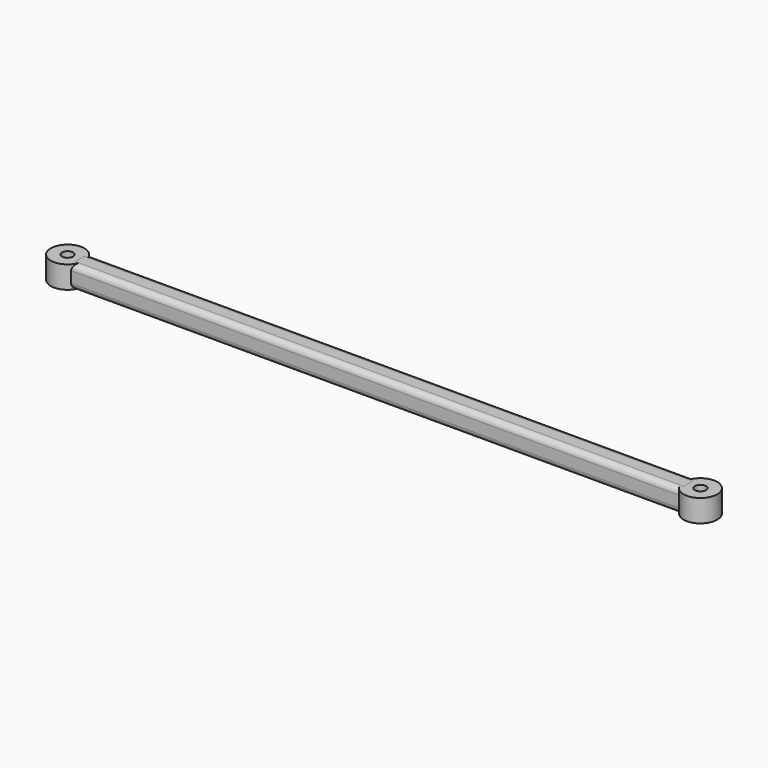
from build123d import *

# Parameters (mm, degrees)
SKETCH_R     = 3
SKETCH_R_2   = 1
PAD_DEPTH    = 4
SKETCH001_W  = 108.7
SKETCH001_H  = 4
PAD001_DEPTH = 2
FILLET_R     = 1
FILLET001_R  = 1
FILLET002_R  = 1
FILLET003_R  = 1


with BuildPart() as pad:
    # Sketch → Pad (new body)
    with BuildSketch(Plane.XY):
        Circle(SKETCH_R)
        Circle(SKETCH_R_2, mode=Mode.SUBTRACT)
        with Locations((113, 0.039615)):
            Circle(SKETCH_R)
        with Locations((113, 0.039615)):
            Circle(SKETCH_R_2, mode=Mode.SUBTRACT)
    extrude(amount=PAD_DEPTH)


with BuildPart() as fillet003:
    # Sketch001 → Pad001 (new body, symmetric)
    with BuildSketch(Plane.XZ):
        with Locations((56.5, 2)):
            Rectangle(SKETCH001_W, SKETCH001_H)
    extrude(amount=PAD001_DEPTH, both=True)

    # Fillet
    fillet_edges = [fillet003.edges().sort_by_distance(p)[0] for p in [
        (56.5, -2, 0),
    ]]
    fillet(fillet_edges, radius=FILLET_R)

    # Fillet001
    fillet001_edges = [fillet003.edges().sort_by_distance(p)[0] for p in [
        (56.5, 2, 0),
    ]]
    fillet(fillet001_edges, radius=FILLET001_R)

    # Fillet002
    fillet002_edges = [fillet003.edges().sort_by_distance(p)[0] for p in [
        (56.5, 2, 4),
    ]]
    fillet(fillet002_edges, radius=FILLET002_R)

    # Fillet003
    fillet003_edges = [fillet003.edges().sort_by_distance(p)[0] for p in [
        (56.5, -2, 4),
    ]]
    fillet(fillet003_edges, radius=FILLET003_R)


solid = Compound([pad.part, fillet003.part])
